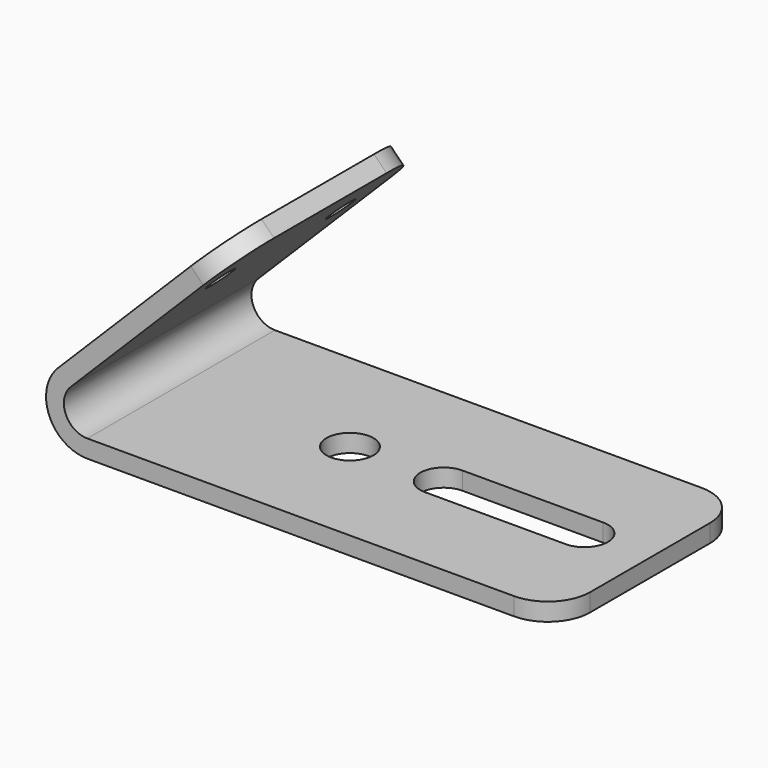
from build123d import *

# Parameters (mm, degrees)
F1_DEPTH = 12.5
F2_R     = 2.5
F3_DEPTH = 1.9009989591
F4_R     = 1.5
F5_DEPTH = 1.8999989591


with BuildPart() as f1:
    # F0 (on Front) → F1 (new body, symmetric)
    with BuildSketch(Plane.XZ):
        with BuildLine():
            Line((-50, 0), (0, 0))
            Line((0, 0), (0, 1.8999989591))
            Line((0, 1.8999989591), (-50, 1.8999989591))
            ThreePointArc((-50, 1.8999989591), (-52.309699793, 3.4432910207), (-51.767767689, 6.167767689))
            Line((-51.767767689, 6.167767689), (-34.0900981594, 23.8454372187))
            Line((-34.0900981594, 23.8454372187), (-35.4336003076, 25.1889393669))
            Line((-35.4336003076, 25.1889393669), (-53.1112698372, 7.5112698372))
            ThreePointArc((-53.1112698372, 7.5112698372), (-54.065069943, 2.7161928976), (-50, 0))
        make_face()
    extrude(amount=F1_DEPTH, both=True)

    # F2 (on face) → F3 (cut, through all)
    with BuildSketch(Plane.XY.offset(1.8999989591)):
        with Locations((-32, 0)):
            Circle(F2_R)
        with BuildLine():
            Line((0, 12.5), (-4.5, 12.5))
            ThreePointArc((-4.5, 12.5), (-1.3180194847, 11.1819805153), (0, 8))
            Line((0, 8), (0, 12.5))
        make_face()
        with BuildLine():
            Line((0, -12.5), (0, -8))
            ThreePointArc((0, -8), (-1.3180194847, -11.1819805153), (-4.5, -12.5))
            Line((-4.5, -12.5), (0, -12.5))
        make_face()
        with BuildLine():
            Line((-7, 2.5), (-22, 2.5))
            ThreePointArc((-22, 2.5), (-24.5, 0), (-22, -2.5))
            Line((-22, -2.5), (-7, -2.5))
            ThreePointArc((-7, -2.5), (-4.5, 0), (-7, 2.5))
        make_face()
    extrude(amount=-F3_DEPTH, mode=Mode.SUBTRACT)

    # F4 (on face) → F5 (cut, through all)
    with BuildSketch(Plane(origin=(-30.3112698372, 0, 30.3112698372), x_dir=(0, -1, 0), z_dir=(-0.7071067812, 0, 0.7071067812))):
        with Locations((-8, -14.7440692221)):
            Circle(F4_R)
        with BuildLine():
            Line((-12.5, -7.2440692221), (-12.5, -12.2440692221))
            ThreePointArc((-12.5, -12.2440692221), (-11.0355339059, -8.7085353162), (-7.5, -7.2440692221))
            Line((-7.5, -7.2440692221), (-12.5, -7.2440692221))
        make_face()
        with Locations((8, -14.7440692221)):
            Circle(F4_R)
        with BuildLine():
            ThreePointArc((7.5, -7.2440692221), (11.0355339059, -8.7085353162), (12.5, -12.2440692221))
            Line((12.5, -12.2440692221), (12.5, -7.2440692221))
            Line((12.5, -7.2440692221), (7.5, -7.2440692221))
        make_face()
    extrude(amount=-F5_DEPTH, mode=Mode.SUBTRACT)


solid = f1.part
